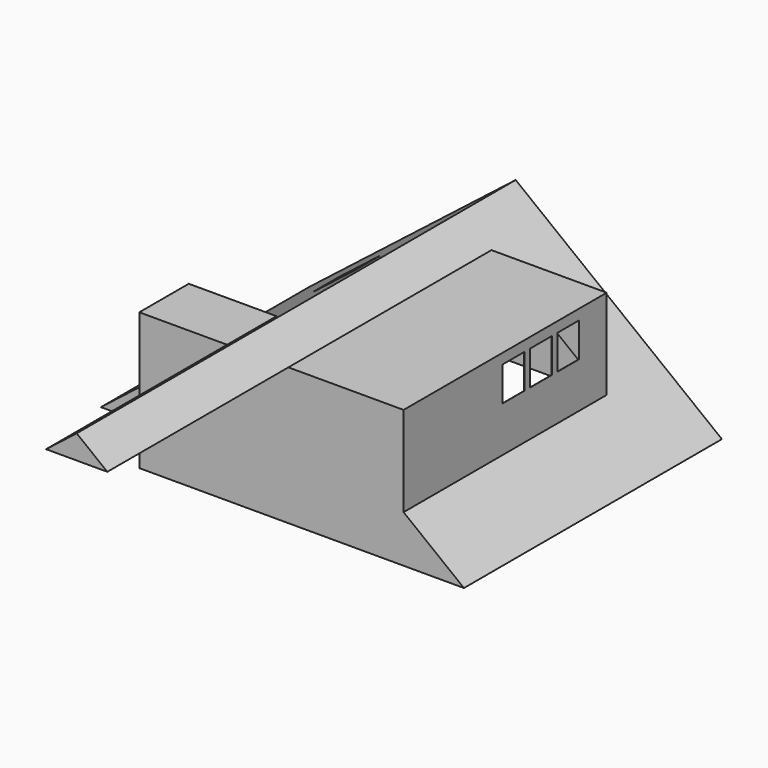
from build123d import *

# Parameters (mm, degrees)
F0_W      = 3453
F0_H      = 4701
F1_DEPTH  = 2000
F3_DEPTH  = 1000
F5_DEPTH  = 3800
F6_W      = 400
F6_H      = 2000
F7_DEPTH  = 3701
F8_T      = -2.5
F9_W      = 400
F9_H      = 500
F10_DEPTH = 2.5
F11_W     = 800
F11_H     = 500
F12_DEPTH = 2.5
F14_DEPTH = 1000
F16_DEPTH = 3701
F18_DEPTH = 3800
F20_DEPTH = 8000


with BuildPart() as f1:
    # F0 (on Top) → F1 (new body)
    with BuildSketch(Plane.XY):
        with Locations((1726.5, 2350.5)):
            Rectangle(F0_W, F0_H)
    extrude(amount=F1_DEPTH)

    # F2 (on face) → F3 (cut)
    with BuildSketch(Plane(origin=(0, 4701, 0), x_dir=(-1, 0, 0), z_dir=(0, 1, 0))):
        Polygon((-3453, 2000), (-3453, 1000), (-2173, 2000), align=None)
    extrude(amount=-F3_DEPTH, mode=Mode.SUBTRACT)

    # F4 (on face) → F5 (cut)
    with BuildSketch(Plane(origin=(0, 4701, 0), x_dir=(-1, 0, 0), z_dir=(0, 1, 0))):
        Polygon((-1280, 2000), (0, 1000), (0, 2000), align=None)
    extrude(amount=-F5_DEPTH, mode=Mode.SUBTRACT)

    # F6 (on face) → F7 (join, through all)
    with BuildSketch(Plane(origin=(0, 3701, 0), x_dir=(-1, 0, 0), z_dir=(0, 1, 0))):
        with Locations((-3653, 1000)):
            Rectangle(F6_W, F6_H)
    extrude(amount=-F7_DEPTH)

    # F8
    f8_openings = [f1.faces().sort_by_distance(p)[0] for p in [
        (1887.511583, 2308.711372, 0),
    ]]
    offset(amount=F8_T, openings=f8_openings, kind=Kind.INTERSECTION)

    # F9 (on face) → F10 (cut, through all)
    with BuildSketch(Plane.YZ.offset(3853)):
        with Locations((3001, 1600)):
            Rectangle(F9_W, F9_H)
        with Locations((2501, 1600)):
            Rectangle(F9_W, F9_H)
        with Locations((2001, 1600)):
            Rectangle(F9_W, F9_H)
    extrude(amount=-F10_DEPTH, mode=Mode.SUBTRACT)

    # F11 (on face) → F12 (cut, through all)
    with BuildSketch(Plane(origin=(-485.1425106125, 0, 620.982413584), x_dir=(0.7880243737, 0, 0.615644042), z_dir=(-0.615644042, 0, 0.7880243737))):
        with Locations((1639.9592823121, 2782.2438387594)):
            Rectangle(F11_W, F11_H)
    extrude(amount=-F12_DEPTH, mode=Mode.SUBTRACT)

    # F13 (on face) → F14 (join, through all)
    with BuildSketch(Plane(origin=(0, 3701, 0), x_dir=(-1, 0, 0), z_dir=(0, 1, 0))):
        Polygon((-3453, 0), (-3453, 1000), (-4733, 0), align=None)
    extrude(amount=F14_DEPTH)

    # F15 (on face) → F16 (join, through all)
    with BuildSketch(Plane.XZ.offset(-3701)):
        Polygon((4733, 0), (3853, 687.5), (3853, 0), align=None)
    extrude(amount=F16_DEPTH)

    # F17 (on face) → F18 (join, through all)
    with BuildSketch(Plane(origin=(0, 4701, 0), x_dir=(-1, 0, 0), z_dir=(0, 1, 0))):
        Polygon((1280, 0), (0, 1000), (0, 0), align=None)
    extrude(amount=-F18_DEPTH)

    # F19 (on face) → F20 (join)
    with BuildSketch(Plane(origin=(0, 4701, 0), x_dir=(-1, 0, 0), z_dir=(0, 1, 0))):
        Polygon((-2173, 2000), (-1280, 2000), (-1726.5, 2348.828125), align=None)
    extrude(amount=-F20_DEPTH)


solid = f1.part
